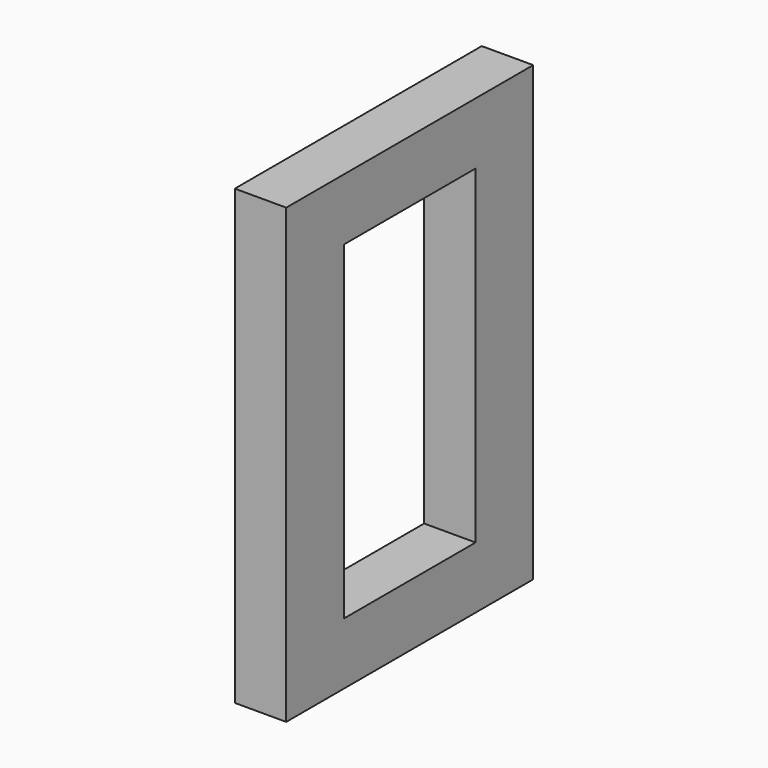
from build123d import *

# Parameters (mm, degrees)
F1_DEPTH = 6.35


with BuildPart() as f1:
    # F0 (on Right) → F1 (new body)
    with BuildSketch(Plane.YZ):
        Polygon((0, 27.94), (0, 0), (19.05, 0), (19.05, 7.62), (8.89, 7.62), (8.89, 27.94), align=None)
        Polygon((19.05, 7.62), (19.05, 0), (38.1, 0), (38.1, 27.94), (29.21, 27.94), (29.21, 7.62), align=None)
        Polygon((29.21, 27.94), (38.1, 27.94), (38.1, 55.88), (19.05, 55.88), (19.05, 48.26), (29.21, 48.26), align=None)
        Polygon((0, 55.88), (0, 27.94), (8.89, 27.94), (8.89, 48.26), (19.05, 48.26), (19.05, 55.88), align=None)
    extrude(amount=F1_DEPTH)


solid = f1.part
